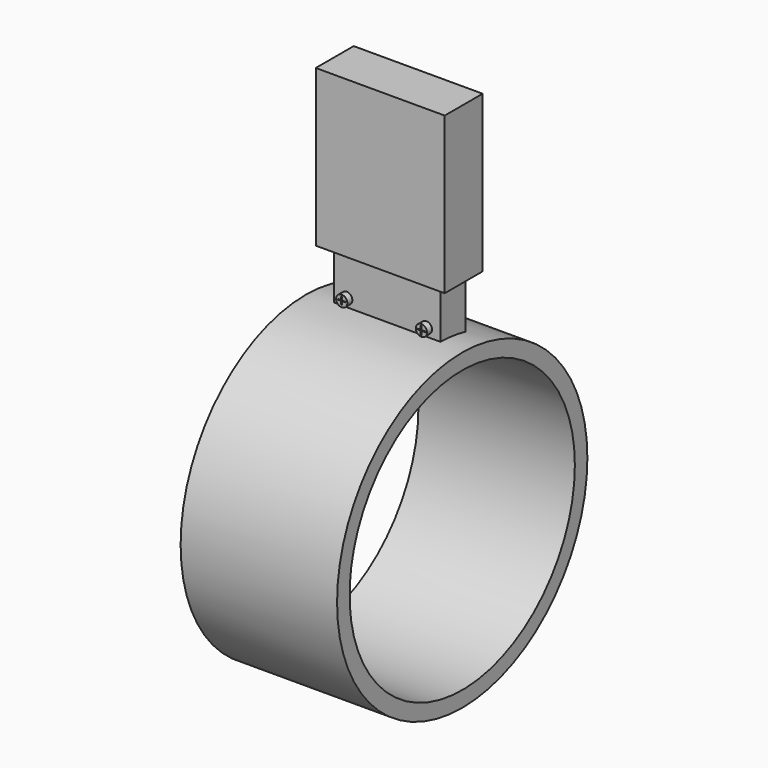
from build123d import *

# Parameters (mm, degrees)
F0_R      = 25
F1_DEPTH  = 25
F2_R      = 22.5
F3_DEPTH  = 30
F5_W      = 17
F5_H      = 5
F6_DEPTH  = 10
F7_R      = 0.9
F8_DEPTH  = 1
F9_W      = 0.4566367716
F9_H      = 0.1114215702
F9_W_2    = 0.1583136618
F9_H_2    = 0.5275197327
F9_W_3    = 0.4842821509
F9_H_3    = 0.4520714283
F10_DEPTH = 0.2
F11_W     = 0.1633954234
F11_H     = 0.5346611142
F11_W_2   = 0.5340673961
F11_H_2   = 0.1833848655
F11_W_3   = 0.5863611586
F11_H_3   = 0.598071143
F12_DEPTH = 0.2
F13_R     = 0.9
F14_DEPTH = 1
F16_W     = 0.1523271203
F16_H     = 0.6093140692
F16_H_2   = 0.1280289143
F16_W_2   = 0.5286876112
F16_W_3   = 0.605950132
F16_H_3   = 0.6601605564
F17_DEPTH = 0.2
F15_W     = 0.1208484173
F15_H     = 0.469468534
F15_H_2   = 0.0698883086
F15_W_2   = 0.0528423116
F15_H_3   = 0.1033879817
F15_W_3   = 0.0704331324
F15_W_4   = 0.469468534
F15_H_4   = 0.5403161049
F15_W_5   = 0.5258051679
F18_DEPTH = 0.2
F19_W     = 20.6024695653
F19_H     = 7.5707876822
F19_W_2   = 17
F19_H_2   = 5
F20_DEPTH = 25


with BuildPart() as f1:
    # F0 (on Right) → F1 (new body)
    with BuildSketch(Plane.YZ):
        Circle(F0_R)
    extrude(amount=F1_DEPTH)

    # F2 (on face) → F3 (cut)
    with BuildSketch(Plane.YZ.offset(25)):
        Circle(F2_R)
    extrude(amount=-F3_DEPTH, mode=Mode.SUBTRACT)

    # F5 (on offset) → F6 (join)
    with BuildSketch(Plane.XY.offset(23)):
        with Locations((12.5475367568, 3.0585098453)):
            Rectangle(F5_W, F5_H)
    extrude(amount=F6_DEPTH)

    # F7 (on face) → F8 (join)
    with BuildSketch(Plane(origin=(0, 5.5585098453, 0), x_dir=(-1, 0, 0), z_dir=(0, 1, 0))):
        with Locations((-19.3896782356, 25.9250514209)):
            Circle(F7_R)
        with Locations((-5.5436493817, 25.9250514209)):
            Circle(F7_R)
    extrude(amount=F8_DEPTH)

    # F9 (on face) → F10 (cut)
    with BuildSketch(Plane(origin=(0, 6.5585098453, 0), x_dir=(-1, 0, 0), z_dir=(0, 1, 0))):
        with Locations((-19.6518069133, 25.9384280071)):
            Rectangle(F9_W, F9_H)
        with Locations((-19.3443316966, 25.9384280071)):
            Rectangle(F9_W_2, F9_H)
        with Locations((-19.3443316966, 25.6189573556)):
            Rectangle(F9_W_2, F9_H_2)
        with Locations((-19.0230337903, 25.9384280071)):
            Rectangle(F9_W_3, F9_H)
        with Locations((-19.3443316966, 26.2201745063)):
            Rectangle(F9_W_2, F9_H_3)
    extrude(amount=-F10_DEPTH, mode=Mode.SUBTRACT)

    # F11 (on face) → F12 (cut)
    with BuildSketch(Plane(origin=(0, 6.5585098453, 0), x_dir=(-1, 0, 0), z_dir=(0, 1, 0))):
        with Locations((-5.5837228429, 25.5438815802)):
            Rectangle(F11_W, F11_H)
        with Locations((-5.9324542526, 25.9029045701)):
            Rectangle(F11_W_2, F11_H_2)
        with Locations((-5.5837228429, 25.9029045701)):
            Rectangle(F11_W, F11_H_2)
        with Locations((-5.2088445518, 25.9029045701)):
            Rectangle(F11_W_3, F11_H_2)
        with Locations((-5.5837228429, 26.2936325744)):
            Rectangle(F11_W, F11_H_3)
    extrude(amount=-F12_DEPTH, mode=Mode.SUBTRACT)

    # F13 (on face) → F14 (join)
    with BuildSketch(Plane.XZ.offset(-0.5585098453)):
        with Locations((6.0973112057, 26.2796394527)):
            Circle(F13_R)
        with Locations((18.8313634067, 26.2796394527)):
            Circle(F13_R)
    extrude(amount=F14_DEPTH)

    # F16 (on face) → F17 (cut)
    with BuildSketch(Plane.XZ.offset(0.4414901547)):
        with Locations((18.7808908522, 26.6468180344)):
            Rectangle(F16_W, F16_H)
        with Locations((18.7808908522, 26.2781465426)):
            Rectangle(F16_W, F16_H_2)
        with Locations((18.4403834864, 26.2781465426)):
            Rectangle(F16_W_2, F16_H_2)
        with Locations((19.1600294784, 26.2781465426)):
            Rectangle(F16_W_3, F16_H_2)
        with Locations((18.7808908522, 25.8840518072)):
            Rectangle(F16_W, F16_H_3)
    extrude(amount=-F17_DEPTH, mode=Mode.SUBTRACT)

    # F15 (on face) → F18 (cut)
    with BuildSketch(Plane.XZ.offset(0.4414901547)):
        with Locations((6.0697374865, 26.6739912331)):
            Rectangle(F15_W, F15_H)
        with Locations((6.0697374865, 26.4043128118)):
            Rectangle(F15_W, F15_H_2)
        with Locations((5.9828921221, 26.3176746666)):
            Rectangle(F15_W_2, F15_H_3)
        with Locations((6.0697374865, 26.3176746666)):
            Rectangle(F15_W, F15_H_3)
        with Locations((6.1653782614, 26.3176746666)):
            Rectangle(F15_W_3, F15_H_3)
        with Locations((5.7217366993, 26.3176746666)):
            Rectangle(F15_W_4, F15_H_3)
        with Locations((6.0697374865, 25.9958226234)):
            Rectangle(F15_W, F15_H_4)
        with Locations((6.4634974115, 26.3176746666)):
            Rectangle(F15_W_5, F15_H_3)
    extrude(amount=-F18_DEPTH, mode=Mode.SUBTRACT)

    # F19 (on face) → F20 (join)
    with BuildSketch(Plane.XY.offset(33)):
        with Locations((12.5949246576, 2.9163391446)):
            Rectangle(F19_W, F19_H)
        with Locations((12.5475367568, 3.0585098453)):
            Rectangle(F19_W_2, F19_H_2, mode=Mode.SUBTRACT)
        with Locations((12.5475367568, 3.0585098453)):
            Rectangle(F19_W_2, F19_H_2)
    extrude(amount=F20_DEPTH)


solid = f1.part
